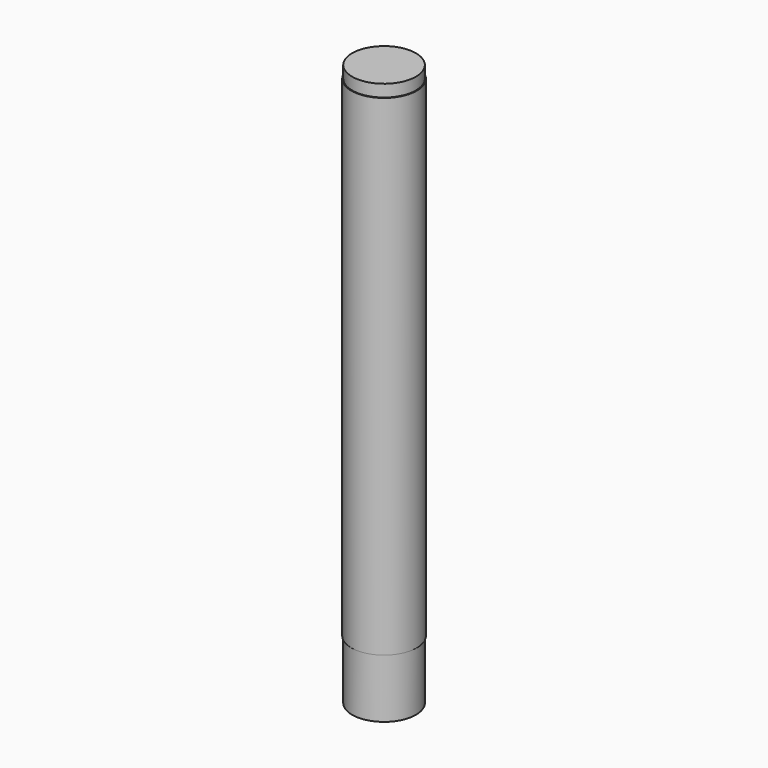
from build123d import *

# Parameters (mm, degrees)
F0_R          = 10
F1_DEPTH      = 150
F2_R          = 9.75
F3_DEPTH      = 153.7
F3_DEPTH_BACK = 18.1


with BuildPart() as f1:
    # F0 (on Top) → F1 (new body)
    with BuildSketch(Plane.XY):
        Circle(F0_R)
    extrude(amount=F1_DEPTH)

    # F2 (on Top) → F3 (join, two sides)
    with BuildSketch(Plane.XY) as f3_sk:
        Circle(F2_R)
    extrude(amount=F3_DEPTH)
    extrude(f3_sk.sketch, amount=-F3_DEPTH_BACK)


solid = f1.part
